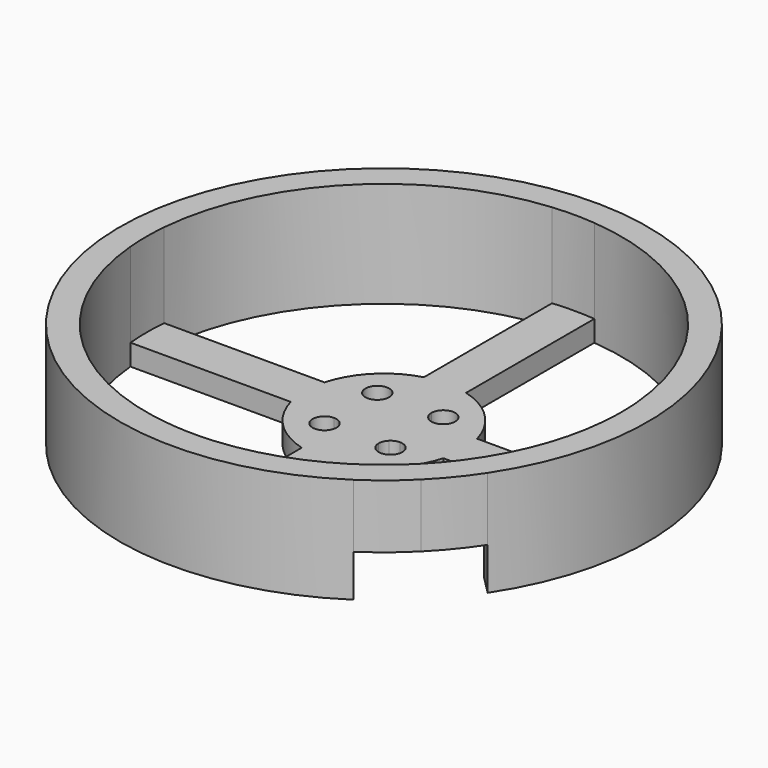
from build123d import *

# Parameters (mm, degrees)
F1_DEPTH = 20
F0_W     = 8
F0_H     = 8
F2_DEPTH = 4
F3_DEPTH = 8


with BuildPart() as f1:
    # F0 (on Top) → F1 (new body)
    with BuildSketch(Plane.XY):
        with BuildLine():
            Line((23.9531163031, -38.0952519268), (27.5699483395, -41.7120839632))
            ThreePointArc((27.5699483395, -41.7120839632), (31.6227766017, -38.7298334621), (35.3553390593, -35.3553390593))
            Line((35.3553390593, -35.3553390593), (31.8198051534, -31.8198051534))
            ThreePointArc((31.8198051534, -31.8198051534), (28.0624304008, -35.1781181987), (23.9531163031, -38.0952519268))
        make_face()
        with BuildLine():
            ThreePointArc((35.3553390593, -35.3553390593), (38.7298334621, -31.6227766017), (41.7120839632, -27.5699483395))
            Line((41.7120839632, -27.5699483395), (38.0952519268, -23.9531163031))
            ThreePointArc((38.0952519268, -23.9531163031), (35.1781181987, -28.0624304008), (31.8198051534, -31.8198051534))
            Line((31.8198051534, -31.8198051534), (35.3553390593, -35.3553390593))
        make_face()
        with BuildLine():
            ThreePointArc((41.7120839632, -27.5699483395), (47.883213124, -14.3943704593), (50, 0))
            ThreePointArc((50, 0), (-44.0369016677, 23.6801877423), (27.5699483395, -41.7120839632))
            Line((27.5699483395, -41.7120839632), (23.9531163031, -38.0952519268))
            ThreePointArc((23.9531163031, -38.0952519268), (14.3755356179, -42.6420446941), (4, -44.821869662))
            ThreePointArc((4, -44.821869662), (0, -45), (-4, -44.821869662))
            ThreePointArc((-4, -44.821869662), (-31.8198051534, -31.8198051534), (-44.821869662, -4))
            ThreePointArc((-44.821869662, -4), (-45, 0), (-44.821869662, 4))
            ThreePointArc((-44.821869662, 4), (-31.8198051534, 31.8198051534), (-4, 44.821869662))
            ThreePointArc((-4, 44.821869662), (0, 45), (4, 44.821869662))
            ThreePointArc((4, 44.821869662), (31.8198051534, 31.8198051534), (44.821869662, 4))
            ThreePointArc((44.821869662, 4), (44.9554453587, 2.0019821688), (45, 0))
            ThreePointArc((45, 0), (44.9554453587, -2.0019821688), (44.821869662, -4))
            ThreePointArc((44.821869662, -4), (42.6420446941, -14.3755356179), (38.0952519268, -23.9531163031))
            Line((38.0952519268, -23.9531163031), (41.7120839632, -27.5699483395))
        make_face()
        with BuildLine():
            ThreePointArc((41.7120839632, -27.5699483395), (47.883213124, -14.3943704593), (50, 0))
            ThreePointArc((50, 0), (-44.0369016677, 23.6801877423), (27.5699483395, -41.7120839632))
            Line((27.5699483395, -41.7120839632), (23.9531163031, -38.0952519268))
            ThreePointArc((23.9531163031, -38.0952519268), (14.3755356179, -42.6420446941), (4, -44.821869662))
            ThreePointArc((4, -44.821869662), (0, -45), (-4, -44.821869662))
            ThreePointArc((-4, -44.821869662), (-31.8198051534, -31.8198051534), (-44.821869662, -4))
            ThreePointArc((-44.821869662, -4), (-45, 0), (-44.821869662, 4))
            ThreePointArc((-44.821869662, 4), (-31.8198051534, 31.8198051534), (-4, 44.821869662))
            ThreePointArc((-4, 44.821869662), (0, 45), (4, 44.821869662))
            ThreePointArc((4, 44.821869662), (31.8198051534, 31.8198051534), (44.821869662, 4))
            ThreePointArc((44.821869662, 4), (44.9554453587, 2.0019821688), (45, 0))
            ThreePointArc((45, 0), (44.9554453587, -2.0019821688), (44.821869662, -4))
            ThreePointArc((44.821869662, -4), (42.6420446941, -14.3755356179), (38.0952519268, -23.9531163031))
            Line((38.0952519268, -23.9531163031), (41.7120839632, -27.5699483395))
        make_face()
    extrude(amount=F1_DEPTH)

    # F0 (on Top) → F2 (join)
    with BuildSketch(Plane.XY):
        with BuildLine():
            Line((4, 14.4568322948), (4, 44.821869662))
            ThreePointArc((4, 44.821869662), (0, 45), (-4, 44.821869662))
            Line((-4, 44.821869662), (-4, 14.4568322948))
            ThreePointArc((-4, 14.4568322948), (0, 15), (4, 14.4568322948))
        make_face()
        with BuildLine():
            Line((-4, 4), (4, 4))
            Line((4, 4), (4, 6.25))
            Line((4, 6.25), (4, 14.4568322948))
            ThreePointArc((4, 14.4568322948), (0, 15), (-4, 14.4568322948))
            Line((-4, 14.4568322948), (-4, 6.25))
            Line((-4, 6.25), (-4, 4))
        make_face()
        with BuildLine():
            Line((14.4568322948, -4), (44.821869662, -4))
            ThreePointArc((44.821869662, -4), (44.9554453587, -2.0019821688), (45, 0))
            ThreePointArc((45, 0), (44.9554453587, 2.0019821688), (44.821869662, 4))
            Line((44.821869662, 4), (14.4568322948, 4))
            ThreePointArc((14.4568322948, 4), (14.8635877974, 2.0183552187), (15, 0))
            ThreePointArc((15, 0), (14.8635877974, -2.0183552187), (14.4568322948, -4))
        make_face()
        with BuildLine():
            Line((6.2500000127, 4), (14.4568322948, 4))
            ThreePointArc((14.4568322948, 4), (10.6066017178, 10.6066017178), (4, 14.4568322948))
            Line((4, 14.4568322948), (4, 6.25))
            ThreePointArc((4, 6.25), (6.25, 8.5), (8.5, 6.25))
            ThreePointArc((8.5, 6.25), (7.8409902621, 4.6590097468), (6.2500000127, 4))
        make_face()
        with BuildLine():
            Line((6.2499999791, -4), (14.4568322948, -4))
            ThreePointArc((14.4568322948, -4), (14.8635877974, -2.0183552187), (15, 0))
            ThreePointArc((15, 0), (14.8635877974, 2.0183552187), (14.4568322948, 4))
            Line((14.4568322948, 4), (6.2500000127, 4))
            Line((6.2500000127, 4), (4, 4))
            Line((4, 4), (4, -4))
            Line((4, -4), (6.2499999791, -4))
        make_face()
        with BuildLine():
            Line((4, 6.25), (4, 4))
            Line((4, 4), (6.2500000127, 4))
            ThreePointArc((6.2500000127, 4), (4.6590097468, 4.6590097379), (4, 6.25))
        make_face()
        Rectangle(F0_W, F0_H)
        with BuildLine():
            ThreePointArc((-14.4568322948, 4), (-15, 0), (-14.4568322948, -4))
            Line((-14.4568322948, -4), (-6.2500000209, -4))
            Line((-6.2500000209, -4), (-4, -4))
            Line((-4, -4), (-4, 4))
            Line((-4, 4), (-6.2499999873, 4))
            Line((-6.2499999873, 4), (-14.4568322948, 4))
        make_face()
        with BuildLine():
            ThreePointArc((-4, 14.4568322948), (-10.6066017178, 10.6066017178), (-14.4568322948, 4))
            Line((-14.4568322948, 4), (-6.2499999873, 4))
            ThreePointArc((-6.2499999873, 4), (-7.8409902621, 7.8409902532), (-4, 6.25))
            Line((-4, 6.25), (-4, 14.4568322948))
        make_face()
        with BuildLine():
            ThreePointArc((-14.4568322948, -4), (-10.6066017178, -10.6066017178), (-4, -14.4568322948))
            Line((-4, -14.4568322948), (-4, -6.25))
            ThreePointArc((-4, -6.25), (-7.8409902503, -7.8409902651), (-6.2500000209, -4))
            Line((-6.2500000209, -4), (-14.4568322948, -4))
        make_face()
        with BuildLine():
            Line((4, -4), (4, -6.25))
            ThreePointArc((4, -6.25), (4.1712710518, -5.3889622772), (4.6590097423, -4.6590097423))
            Line((4.6590097423, -4.6590097423), (4, -4))
        make_face()
        with BuildLine():
            ThreePointArc((4, -14.4568322948), (7.5527658715, -12.9597734429), (10.6066017178, -10.6066017178))
            Line((10.6066017178, -10.6066017178), (7.8409902577, -7.8409902577))
            ThreePointArc((7.8409902577, -7.8409902577), (5.3889622772, -8.3287289482), (4, -6.25))
            Line((4, -6.25), (4, -14.4568322948))
        make_face()
        with BuildLine():
            ThreePointArc((-4, -44.821869662), (0, -45), (4, -44.821869662))
            Line((4, -44.821869662), (4, -14.4568322948))
            ThreePointArc((4, -14.4568322948), (0, -15), (-4, -14.4568322948))
            Line((-4, -14.4568322948), (-4, -44.821869662))
        make_face()
        with BuildLine():
            ThreePointArc((-44.821869662, 4), (-45, 0), (-44.821869662, -4))
            Line((-44.821869662, -4), (-14.4568322948, -4))
            ThreePointArc((-14.4568322948, -4), (-15, 0), (-14.4568322948, 4))
            Line((-14.4568322948, 4), (-44.821869662, 4))
        make_face()
        with BuildLine():
            ThreePointArc((-4, -14.4568322948), (0, -15), (4, -14.4568322948))
            Line((4, -14.4568322948), (4, -6.25))
            Line((4, -6.25), (4, -4))
            Line((4, -4), (-4, -4))
            Line((-4, -4), (-4, -6.25))
            Line((-4, -6.25), (-4, -14.4568322948))
        make_face()
        with BuildLine():
            ThreePointArc((-6.2500000209, -4), (-4.6590097497, -4.6590097349), (-4, -6.25))
            Line((-4, -6.25), (-4, -4))
            Line((-4, -4), (-6.2500000209, -4))
        make_face()
        with BuildLine():
            ThreePointArc((-4, 6.25), (-4.6590097379, 4.6590097468), (-6.2499999873, 4))
            Line((-6.2499999873, 4), (-4, 4))
            Line((-4, 4), (-4, 6.25))
        make_face()
        with BuildLine():
            Line((7.8409902577, -7.8409902577), (10.6066017178, -10.6066017178))
            ThreePointArc((10.6066017178, -10.6066017178), (12.9597734429, -7.5527658715), (14.4568322948, -4))
            Line((14.4568322948, -4), (6.2499999791, -4))
            ThreePointArc((6.2499999791, -4), (7.8409902503, -4.6590097349), (8.5, -6.25))
            ThreePointArc((8.5, -6.25), (8.3287289482, -7.1110377228), (7.8409902577, -7.8409902577))
        make_face()
        with BuildLine():
            ThreePointArc((4.6590097423, -4.6590097423), (5.3889622675, -4.1712710559), (6.2499999791, -4))
            Line((6.2499999791, -4), (4, -4))
            Line((4, -4), (4.6590097423, -4.6590097423))
        make_face()
    extrude(amount=F2_DEPTH)

    # F0 (on Top) → F3 (cut)
    with BuildSketch(Plane.XY):
        with BuildLine():
            ThreePointArc((35.3553390593, -35.3553390593), (38.7298334621, -31.6227766017), (41.7120839632, -27.5699483395))
            Line((41.7120839632, -27.5699483395), (38.0952519268, -23.9531163031))
            ThreePointArc((38.0952519268, -23.9531163031), (35.1781181987, -28.0624304008), (31.8198051534, -31.8198051534))
            Line((31.8198051534, -31.8198051534), (35.3553390593, -35.3553390593))
        make_face()
        with BuildLine():
            Line((23.9531163031, -38.0952519268), (27.5699483395, -41.7120839632))
            ThreePointArc((27.5699483395, -41.7120839632), (31.6227766017, -38.7298334621), (35.3553390593, -35.3553390593))
            Line((35.3553390593, -35.3553390593), (31.8198051534, -31.8198051534))
            ThreePointArc((31.8198051534, -31.8198051534), (28.0624304008, -35.1781181987), (23.9531163031, -38.0952519268))
        make_face()
    extrude(amount=F3_DEPTH, mode=Mode.SUBTRACT)


solid = f1.part
